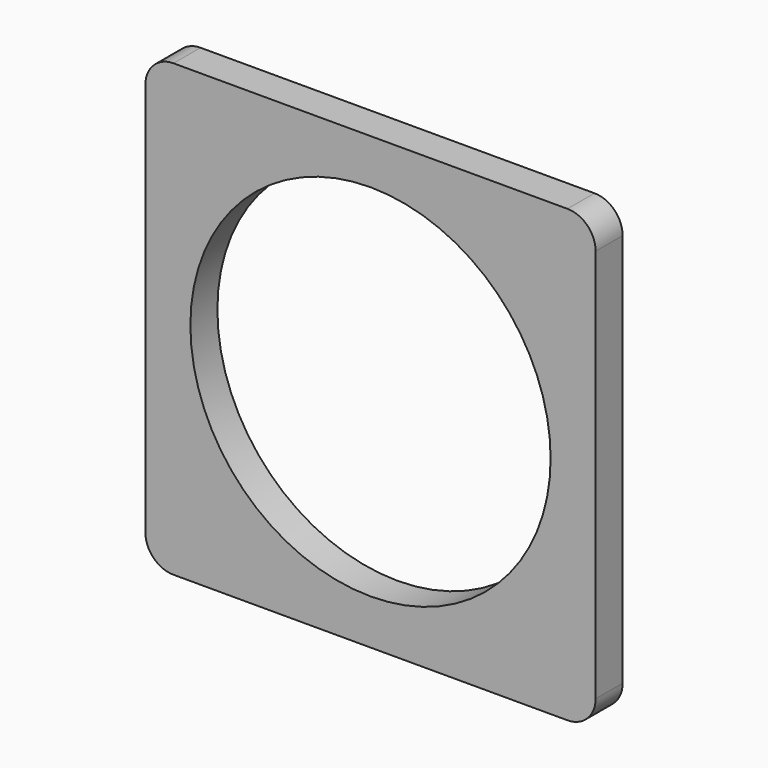
from build123d import *

# Parameters (mm, degrees)
F0_R     = 32
F1_DEPTH = 6


with BuildPart() as f1:
    # F0 (on Front) → F1 (new body)
    with BuildSketch(Plane.XZ):
        with BuildLine():
            Line((-75, 0), (-5, 0))
            ThreePointArc((-5, 0), (-1.464466, 1.464466), (0, 5))
            Line((0, 5), (0, 75))
            ThreePointArc((0, 75), (-1.464466, 78.535534), (-5, 80))
            Line((-5, 80), (-75, 80))
            ThreePointArc((-75, 80), (-78.535534, 78.535534), (-80, 75))
            Line((-80, 75), (-80, 5))
            ThreePointArc((-80, 5), (-78.535534, 1.464466), (-75, 0))
        make_face()
        with Locations((-40, 40)):
            Circle(F0_R, mode=Mode.SUBTRACT)
    extrude(amount=F1_DEPTH)


solid = f1.part
